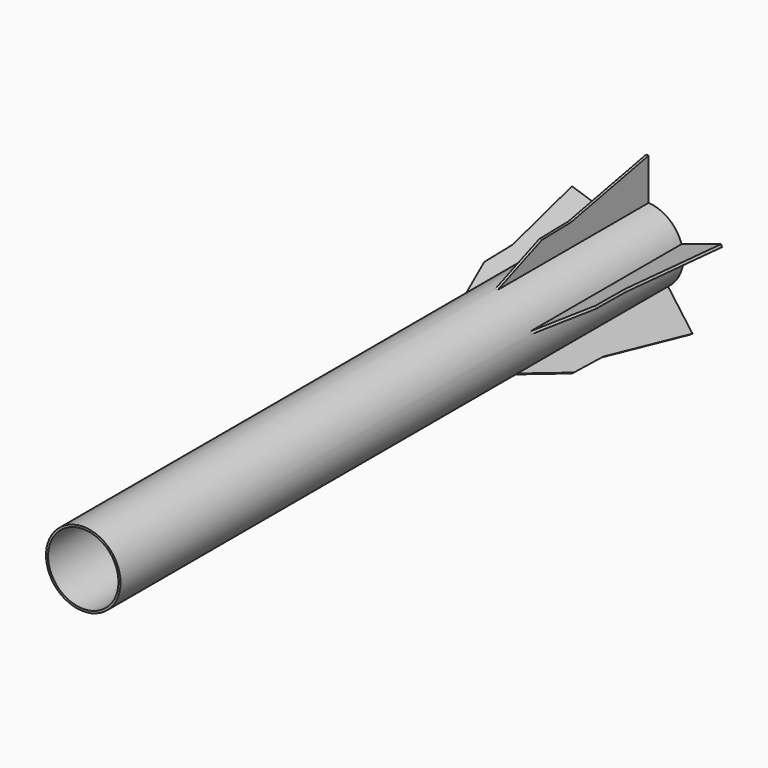
from build123d import *

# Parameters (mm, degrees)
F0_R     = 11.65
F0_R_2   = 11
F1_DEPTH = 220
F3_DEPTH = 0.8
F4_COUNT = 5


with BuildPart() as f1:
    # F0 (on Front) → F1 (new body)
    with BuildSketch(Plane.XZ):
        Circle(F0_R)
        Circle(F0_R_2, mode=Mode.SUBTRACT)
    extrude(amount=F1_DEPTH)

    # F2 (on Right) → F3 (join)
    with BuildSketch(Plane.YZ):
        Polygon((-60.803428, 10.931599), (0, 10.931599), (0, 24.654245), (-30.401714, 18.606978), (-41.75102, 18.382577), align=None)
    extrude(amount=F3_DEPTH)

    # F4: F1 ×5 about axis
    f4_axis = Axis((0, 0, 0), (0, -1, 0))


with BuildPart() as f1_1:
    add(f1.part)
    for i in range(1, F4_COUNT):
        add(f1.part.rotate(f4_axis, i * 360 / F4_COUNT))


solid = f1_1.part
